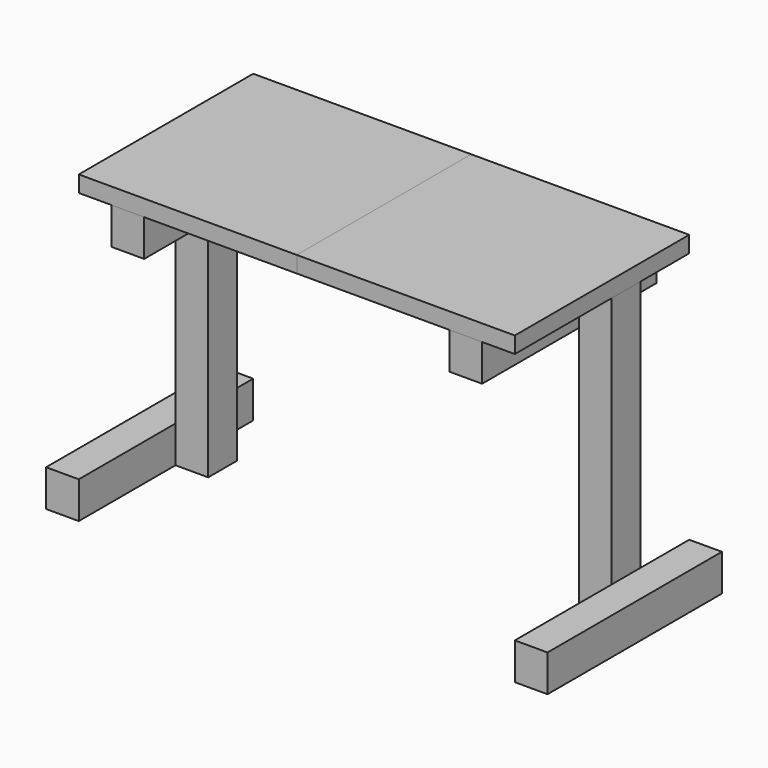
from build123d import *

# Parameters (mm, degrees)
F2_W      = 254
F2_H      = 254
F3_DEPTH  = 19.05
F4_DEPTH  = 19.05
F5_W      = 38.1
F5_H      = 41.833972
F6_DEPTH  = 336.55
F7_W      = 38.1
F7_H      = 42.8752
F8_DEPTH  = 254
F9_W      = 38.1
F9_H      = 42.8752
F10_DEPTH = 254


with BuildPart() as f3:
    # F2 (on plane+point) → F3 (new body)
    with BuildSketch(Plane.XY.offset(355.6)):
        with Locations((127, 0)):
            Rectangle(F2_W, F2_H)
    extrude(amount=-F3_DEPTH)

    # F2 (on plane+point) → F4 (join)
    with BuildSketch(Plane.XY.offset(355.6)):
        with Locations((127, 0)):
            Rectangle(F2_W, F2_H)
    extrude(amount=-F4_DEPTH)


with BuildPart() as f6:
    # F5 (on face) → F6 (new body, through all)
    with BuildSketch(Plane(origin=(0, 0, 336.55), x_dir=(1, 0, 0), z_dir=(0, 0, -1))):
        with Locations((234.95, -34.775032)):
            Rectangle(F5_W, F5_H)
    extrude(amount=F6_DEPTH)


with BuildPart() as f8:
    # F7 (on face) → F8 (new body, through all)
    with BuildSketch(Plane(origin=(0, 127, 0), x_dir=(-1, 0, 0), z_dir=(0, 1, 0))):
        with Locations((-196.85, 315.1124)):
            Rectangle(F7_W, F7_H)
    extrude(amount=-F8_DEPTH)


with BuildPart() as f10:
    # F9 (on face) → F10 (new body, through all)
    with BuildSketch(Plane(origin=(0, 127, 0), x_dir=(-1, 0, 0), z_dir=(0, 1, 0))):
        with Locations((-273.05, 21.4376)):
            Rectangle(F9_W, F9_H)
    extrude(amount=-F10_DEPTH)


with BuildPart() as f11_1:
    # F11: instance of F3
    add(f3.part.mirror(Plane.YZ))


with BuildPart() as f11_2:
    # F11: instance of F6
    add(f6.part.mirror(Plane.YZ))


with BuildPart() as f11_3:
    # F11: instance of F8
    add(f8.part.mirror(Plane.YZ))


with BuildPart() as f11_4:
    # F11: instance of F10
    add(f10.part.mirror(Plane.YZ))


solid = Compound([f3.part, f6.part, f8.part, f10.part, f11_1.part, f11_2.part, f11_3.part, f11_4.part])
